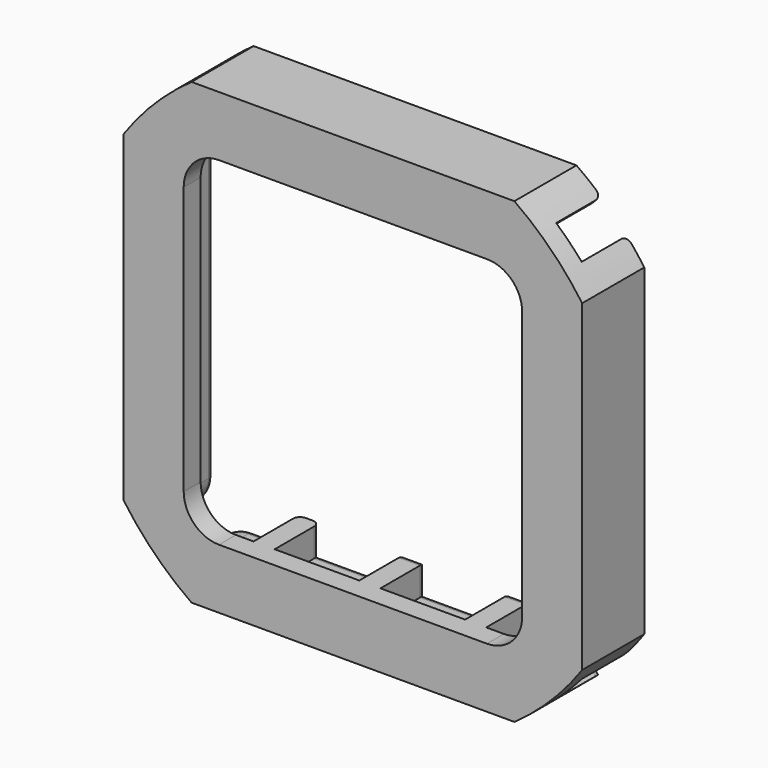
from build123d import *

# Parameters (mm, degrees)
F0_W     = 65
F0_H     = 65
F1_DEPTH = 8
F2_W     = 65
F2_H     = 65
F3_DEPTH = 3
F5_DEPTH = 11.001
F7_DEPTH = 11.001
F9_DEPTH = 8
F10_R    = 1


with BuildPart() as f1:
    # F0 (on Front) → F1 (new body)
    with BuildSketch(Plane.XZ):
        with Locations((28.5, 28)):
            Rectangle(F0_W, F0_H)
        Polygon((12, 0), (0, 0), (0, 56), (12, 56), (12, 52), (15, 52), (15, 56), (27, 56), (27, 52), (30, 52), (30, 56), (42, 56), (42, 52), (45, 52), (45, 56), (57, 56), (57, 0), (45, 0), (45, 4), (42, 4), (42, 0), (30, 0), (30, 4), (27, 4), (27, 0), (15, 0), (15, 4), (12, 4), align=None, mode=Mode.SUBTRACT)
    extrude(amount=F1_DEPTH)

    # F2 (on face) → F3 (join)
    with BuildSketch(Plane.XZ.offset(8)):
        with Locations((28.5, 28)):
            Rectangle(F2_W, F2_H)
        Polygon((12, 4), (12, 0), (0, 0), (0, 56), (12, 56), (12, 52), (15, 52), (15, 56), (27, 56), (27, 52), (30, 52), (30, 56), (42, 56), (42, 52), (45, 52), (45, 56), (57, 56), (57, 0), (45, 0), (45, 4), (42, 4), (42, 0), (30, 0), (30, 4), (27, 4), (27, 0), (15, 0), (15, 4), align=None, mode=Mode.SUBTRACT)
        Polygon((0, 0), (12, 0), (12, 4), (15, 4), (15, 0), (27, 0), (27, 4), (30, 4), (30, 0), (42, 0), (42, 4), (45, 4), (45, 0), (57, 0), (57, 56), (45, 56), (45, 52), (42, 52), (42, 56), (30, 56), (30, 52), (27, 52), (27, 56), (15, 56), (15, 52), (12, 52), (12, 56), (0, 56), align=None)
    extrude(amount=F3_DEPTH)

    # F4 (on face) → F5 (cut, through all)
    with BuildSketch(Plane.XZ.offset(11)):
        with BuildLine():
            Line((9.5, 4), (47.5, 4))
            ThreePointArc((47.5, 4), (51.0355339059, 5.4644660941), (52.5, 9))
            Line((52.5, 9), (52.5, 47))
            ThreePointArc((52.5, 47), (51.0355339059, 50.5355339059), (47.5, 52))
            Line((47.5, 52), (9.5, 52))
            ThreePointArc((9.5, 52), (5.9644660941, 50.5355339059), (4.5, 47))
            Line((4.5, 47), (4.5, 9))
            ThreePointArc((4.5, 9), (5.9644660941, 5.4644660941), (9.5, 4))
        make_face()
    extrude(amount=-F5_DEPTH, mode=Mode.SUBTRACT)

    # F6 (on face) → F7 (cut, through all)
    with BuildSketch(Plane.XZ.offset(11)):
        with BuildLine():
            ThreePointArc((-4, 50.8869504303), (0.3925054478, 56.1074945522), (5.6130495697, 60.5))
            Line((5.6130495697, 60.5), (-4, 60.5))
            Line((-4, 60.5), (-4, 50.8869504303))
        make_face()
        with BuildLine():
            Line((61, 60.5), (51.3869504303, 60.5))
            ThreePointArc((51.3869504303, 60.5), (56.6074945522, 56.1074945522), (61, 50.8869504303))
            Line((61, 50.8869504303), (61, 60.5))
        make_face()
        with BuildLine():
            Line((61, -4.5), (61, 5.1130495697))
            ThreePointArc((61, 5.1130495697), (56.6074945522, -0.1074945522), (51.3869504303, -4.5))
            Line((51.3869504303, -4.5), (61, -4.5))
        make_face()
        with BuildLine():
            ThreePointArc((5.6130495697, -4.5), (0.3925054478, -0.1074945522), (-4, 5.1130495697))
            Line((-4, 5.1130495697), (-4, -4.5))
            Line((-4, -4.5), (5.6130495697, -4.5))
        make_face()
    extrude(amount=-F7_DEPTH, mode=Mode.SUBTRACT)

    # F8 (on face) → F9 (cut)
    with BuildSketch(Plane(origin=(0, 0, 0), x_dir=(-1, 0, 0), z_dir=(0, 1, 0))):
        with BuildLine():
            ThreePointArc((-54.9136378655, 57.7049193689), (-55.6366618004, 59.0201509297), (-55.8869504303, 60.5))
            Line((-55.8869504303, 60.5), (-61, 60.5))
            Line((-61, 60.5), (-62.4552159954, 54.6130084653))
            ThreePointArc((-62.4552159954, 54.6130084653), (-58.7438875569, 54.1901486861), (-56.9998547435, 50.8869504303))
            Line((-56.9998547435, 50.8869504303), (-51.3869504303, 50.8869504303))
            Line((-51.3869504303, 50.8869504303), (-51.3869504303, 56))
            Line((-51.3869504303, 56), (-56.7145795645, 56))
            ThreePointArc((-56.7145795645, 56), (-55.8274078977, 56.866507887), (-54.9136378655, 57.7049193689))
        make_face()
        with BuildLine():
            ThreePointArc((-51.3869504303, 56), (-53.3455388455, 56.4485889594), (-54.9136378655, 57.7049193689))
            ThreePointArc((-54.9136378655, 57.7049193689), (-55.8274078977, 56.866507887), (-56.7145795645, 56))
            Line((-56.7145795645, 56), (-51.3869504303, 56))
        make_face()
        with BuildLine():
            ThreePointArc((-0.2854204355, 56), (-1.1725921023, 56.866507887), (-2.0863621345, 57.7049193689))
            ThreePointArc((-2.0863621345, 57.7049193689), (-3.6544611545, 56.4485889594), (-5.6130495697, 56))
            Line((-5.6130495697, 56), (-0.2854204355, 56))
        make_face()
        with BuildLine():
            ThreePointArc((-1.1130495697, 60.5), (-1.3633381996, 59.0201509297), (-2.0863621345, 57.7049193689))
            ThreePointArc((-2.0863621345, 57.7049193689), (-1.1725921023, 56.866507887), (-0.2854204355, 56))
            Line((-0.2854204355, 56), (-5.6130495697, 56))
            Line((-5.6130495697, 56), (-5.6130495697, 50.8869504303))
            Line((-5.6130495697, 50.8869504303), (-0.0001452565, 50.8869504303))
            ThreePointArc((-0.0001452565, 50.8869504303), (1.7438875569, 54.1901486861), (5.4552159954, 54.6130084653))
            Line((5.4552159954, 54.6130084653), (4, 60.5))
            Line((4, 60.5), (-1.1130495697, 60.5))
        make_face()
        with BuildLine():
            Line((-5.6130495697, 5.1130495697), (-5.6130495697, 0))
            ThreePointArc((-5.6130495697, 0), (-2.4310690543, -1.3180194847), (-1.1130495697, -4.5))
            Line((-1.1130495697, -4.5), (4, -4.5))
            Line((4, -4.5), (5.4552159954, 1.3869915347))
            ThreePointArc((5.4552159954, 1.3869915347), (1.7438875569, 1.8098513139), (-0.0001452565, 5.1130495697))
            Line((-0.0001452565, 5.1130495697), (-5.6130495697, 5.1130495697))
        make_face()
        with BuildLine():
            ThreePointArc((-56.9998547435, 5.1130495697), (-58.7438875569, 1.8098513139), (-62.4552159954, 1.3869915347))
            Line((-62.4552159954, 1.3869915347), (-61, -4.5))
            Line((-61, -4.5), (-55.8869504303, -4.5))
            ThreePointArc((-55.8869504303, -4.5), (-54.5689309457, -1.3180194847), (-51.3869504303, 0))
            Line((-51.3869504303, 0), (-51.3869504303, 5.1130495697))
            Line((-51.3869504303, 5.1130495697), (-56.9998547435, 5.1130495697))
        make_face()
    extrude(amount=-F9_DEPTH, mode=Mode.SUBTRACT)

    # F10
    f10_edges = [f1.edges().sort_by_distance(p)[0] for p in [
        (48.193475, 0, 56),
        (45, 0, 54),
        (53.345539, 0, 56.448589),
        (43.5, 0, 52),
        (42, 0, 54),
        (36, 0, 56),
        (30, 0, 54),
        (28.5, 0, 52),
        (27, 0, 54),
        (21, 0, 56),
        (15, 0, 54),
        (13.5, 0, 52),
        (12, 0, 54),
        (8.806525, 0, 56),
        (57, 0, 28),
        (57.411614, 0, 52.654617),
        (57.411614, 0, 3.345383),
        (53.345539, 0, -0.448589),
        (48.193475, 0, 0),
        (45, 0, 2),
        (43.5, 0, 4),
        (42, 0, 2),
        (36, 0, 0),
        (30, 0, 2),
        (28.5, 0, 4),
        (27, 0, 2),
        (21, 0, 0),
        (15, 0, 2),
        (12, 0, 2),
        (8.806525, 0, 0),
        (0, 0, 28),
        (-0.411614, 0, 3.345383),
        (-0.411614, 0, 52.654617),
        (3.654461, 0, 56.448589),
    ]]
    fillet(f10_edges, radius=F10_R)


solid = f1.part
